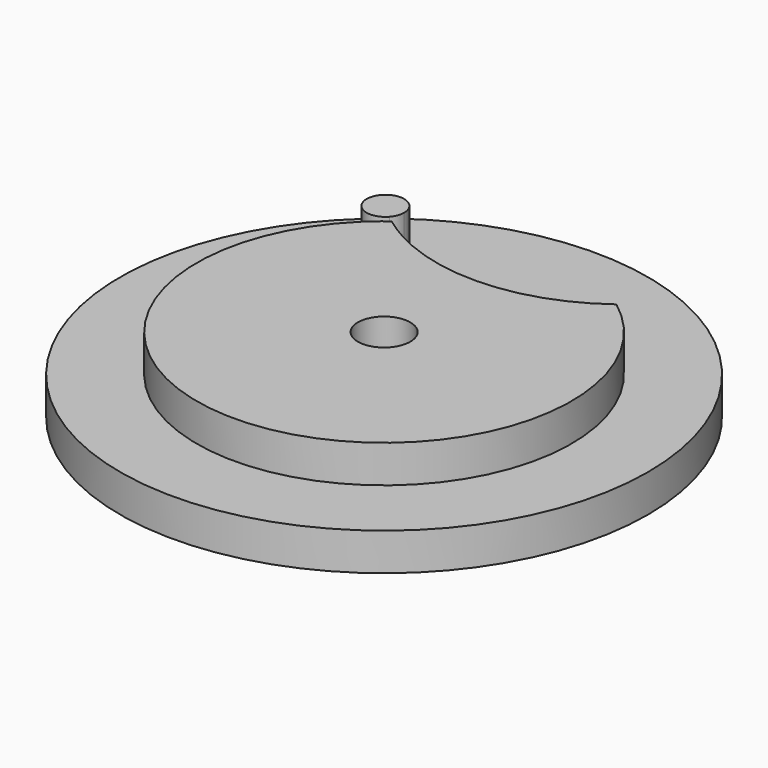
from build123d import *

# Parameters (mm, degrees)
F1_DEPTH = 5
F2_R     = 35.2215875695
F2_R_2   = 3.5
F3_DEPTH = 5


with BuildPart() as f1:
    # F0 (on Top) → F1 (new body)
    with BuildSketch(Plane.XY):
        with BuildLine():
            ThreePointArc((-9.9073162791, 17.0468938018), (-12.5408855394, 18.3730217116), (-15, 20))
            ThreePointArc((-15, 20), (-16.2829033321, 18.9701623366), (-17.4952976137, 17.8581791179))
            Line((-17.4952976137, 17.8581791179), (-2.8184302399, -2.0751990225))
            ThreePointArc((-2.8184302399, -2.0751990225), (-2.172900388, 2.7438119294), (2.6658084384, 2.2679209355))
            Line((2.6658084384, 2.2679209355), (-9.9073162791, 17.0468938018))
        make_face()
        with BuildLine():
            Line((-2.8184302399, -2.0751990225), (-17.4952976137, 17.8581791179))
            ThreePointArc((-17.4952976137, 17.8581791179), (1.6442252637, -24.9458718685), (15, 20))
            ThreePointArc((15, 20), (2.9434785416, 15.1738860456), (-9.9073162791, 17.0468938018))
            Line((-9.9073162791, 17.0468938018), (2.6658084384, 2.2679209355))
            ThreePointArc((2.6658084384, 2.2679209355), (3.2848386212, 1.2082364143), (3.5, 0))
            ThreePointArc((3.5, 0), (1.0921296078, -3.325244791), (-2.8184302399, -2.0751990225))
        make_face()
    extrude(amount=F1_DEPTH)


with BuildPart() as f1b:
    # F0 (on Top) → F1, piece 2 (new body)
    with BuildSketch(Plane.XY):
        with BuildLine():
            ThreePointArc((-19.3548370435, 24.1762746795), (-17.6776695297, 22.3223304703), (-15.8237253205, 20.6451629565))
            ThreePointArc((-15.8237253205, 20.6451629565), (-15.3447678469, 21.4236816298), (-15.1776695297, 22.3223304703))
            ThreePointArc((-15.1776695297, 22.3223304703), (-15.3313562288, 23.1853564805), (-15.7735206451, 23.9422739957))
            ThreePointArc((-15.7735206451, 23.9422739957), (-17.5146688681, 24.8170109678), (-19.3548370435, 24.1762746795))
        make_face()
        with BuildLine():
            ThreePointArc((-19.3548370435, 24.1762746795), (-20.1650866388, 22.5728421974), (-19.6908339867, 20.8400454542))
            ThreePointArc((-19.6908339867, 20.8400454542), (-17.8034970657, 19.825498992), (-15.8237253205, 20.6451629565))
            ThreePointArc((-15.8237253205, 20.6451629565), (-17.6776695297, 22.3223304703), (-19.3548370435, 24.1762746795))
        make_face()
    extrude(amount=F1_DEPTH)


with BuildPart() as f3:
    # F2 (on face) → F3 (new body)
    with BuildSketch(Plane(origin=(0, 0, 0), x_dir=(1, 0, 0), z_dir=(0, 0, -1))):
        Circle(F2_R)
        with BuildLine():
            ThreePointArc((-15, -20), (0, 25), (15, -20))
            ThreePointArc((15, -20), (0, -15), (-15, -20))
        make_face(mode=Mode.SUBTRACT)
        with BuildLine():
            ThreePointArc((-15, -20), (0, -15), (15, -20))
            ThreePointArc((15, -20), (0, 25), (-15, -20))
        make_face()
        Circle(F2_R_2, mode=Mode.SUBTRACT)
    extrude(amount=F3_DEPTH)


solid = Compound([f1.part, f1b.part, f3.part])
